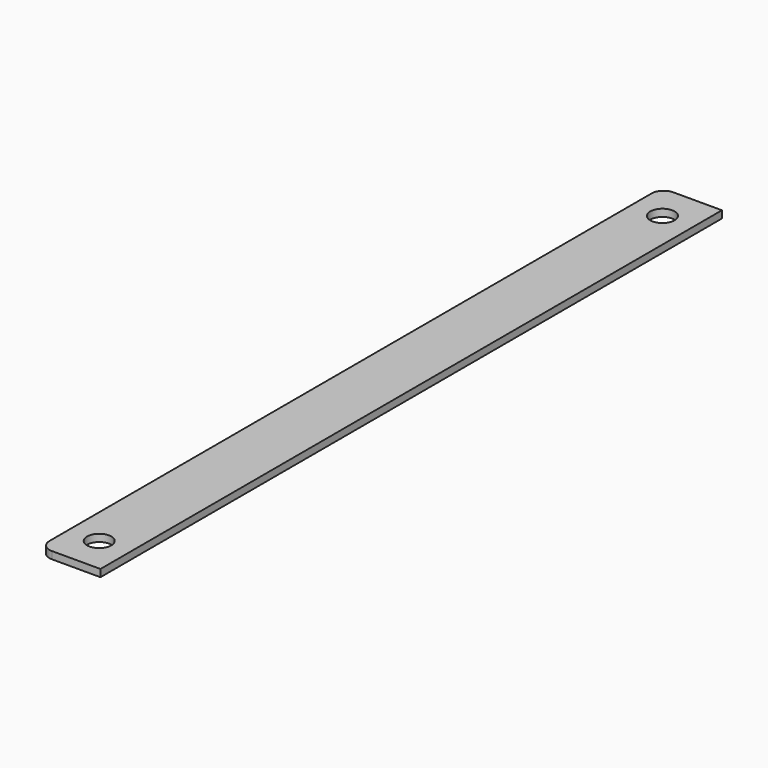
from build123d import *

# Parameters (mm, degrees)
F1_DEPTH = 3
F2_R     = 5
F3_DEPTH = 3


with BuildPart() as f1:
    # F0 (on Top) → F1 (new body)
    with BuildSketch(Plane.XY):
        with BuildLine():
            ThreePointArc((0, 5), (1.464466, 1.464466), (5, 0))
            Line((5, 0), (25, 0))
            Line((25, 0), (25, 320))
            Line((25, 320), (5, 320))
            ThreePointArc((5, 320), (1.464466, 318.535534), (0, 315))
            Line((0, 315), (0, 5))
        make_face()
    extrude(amount=F1_DEPTH)

    # F2 (on face) → F3 (cut, through all)
    with BuildSketch(Plane.XY.offset(3)):
        with Locations((12.5, 305)):
            Circle(F2_R)
        with Locations((12.5, 15)):
            Circle(F2_R)
    extrude(amount=-F3_DEPTH, mode=Mode.SUBTRACT)


solid = f1.part
